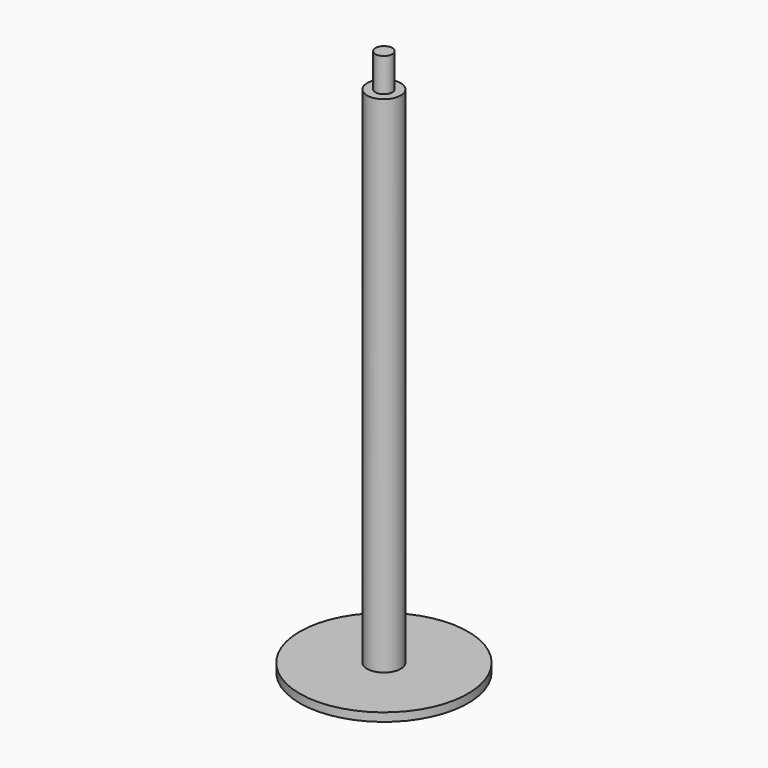
from build123d import *


with BuildPart() as part:
    # Sketch → Revolution (revolve)
    with BuildSketch(Plane.XZ):
        Polygon((0, 0), (-50, 0), (-50, 5), (-10, 5), (-10, 305), (-5, 305), (-5, 325), (0, 325), align=None)
    revolve(axis=Axis((0, 0, 0), (0, 0, 1)))


solid = part.part
